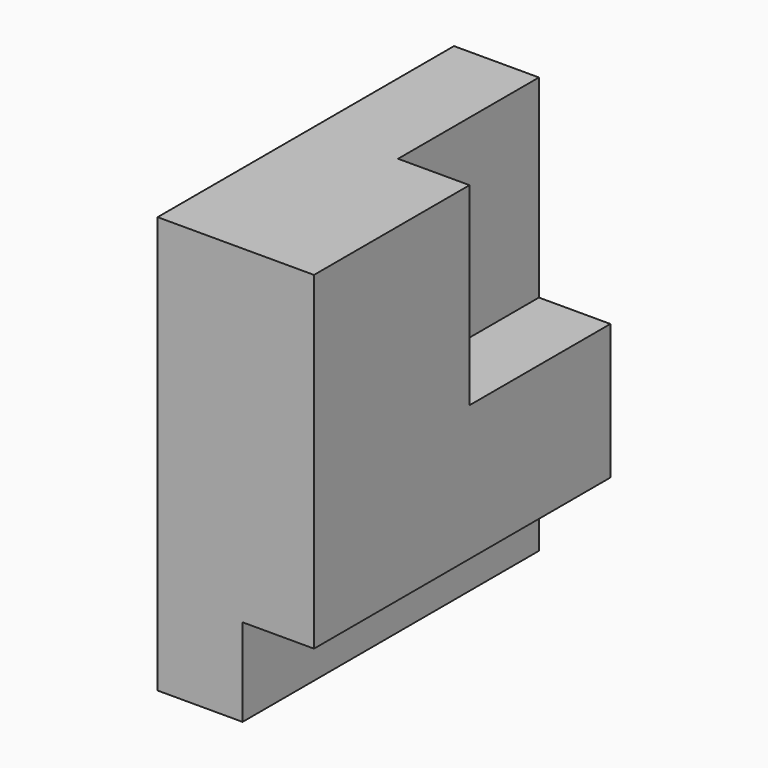
from build123d import *

# Parameters (mm, degrees)
F0_W     = 69.795026
F0_H     = 78.517704
F1_DEPTH = 16.002
F3_DEPTH = 13.462


with BuildPart() as f1:
    # F0 (on Right) → F1 (new body)
    with BuildSketch(Plane.YZ):
        with Locations((-1.721126, 11.479196)):
            Rectangle(F0_W, F0_H)
    extrude(amount=F1_DEPTH)

    # F2 (on face) → F3 (join)
    with BuildSketch(Plane.YZ.offset(16.002)):
        Polygon((0, 14.234204), (0, 50.738048), (-36.618639, 50.738048), (-36.618639, -11.249613), (33.176387, -11.249613), (33.176387, 14.234204), align=None)
    extrude(amount=F3_DEPTH)


solid = f1.part
